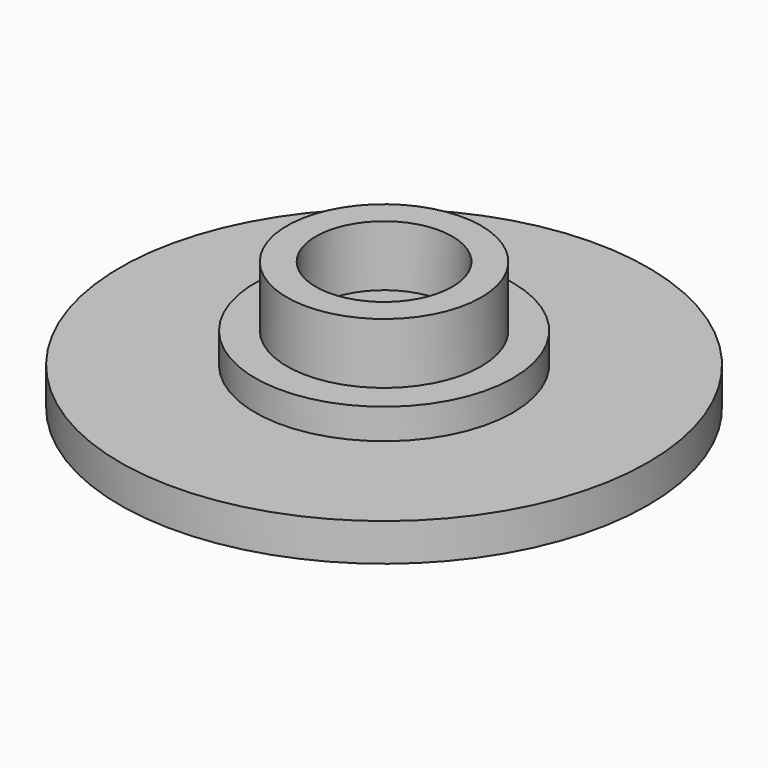
from build123d import *

# Parameters (mm, degrees)
F0_R     = 11.049
F1_DEPTH = 1.5748
F2_R     = 5.3975
F3_DEPTH = 1.27
F4_R     = 4.064
F4_R_2   = 2.8575
F5_DEPTH = 2.54


with BuildPart() as f1:
    # F0 (on Top) → F1 (new body)
    with BuildSketch(Plane.XY):
        Circle(F0_R)
    extrude(amount=F1_DEPTH)

    # F2 (on face) → F3 (join)
    with BuildSketch(Plane.XY.offset(1.5748)):
        Circle(F2_R)
    extrude(amount=F3_DEPTH)

    # F4 (on face) → F5 (join)
    with BuildSketch(Plane.XY.offset(2.8448)):
        Circle(F4_R)
        Circle(F4_R_2, mode=Mode.SUBTRACT)
    extrude(amount=F5_DEPTH)


solid = f1.part
